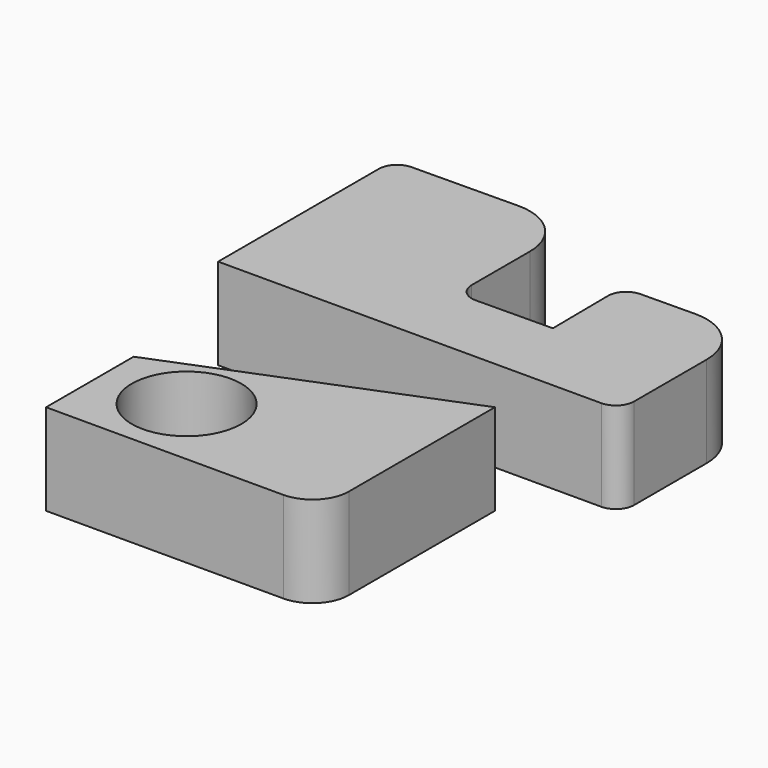
from build123d import *

# Parameters (mm, degrees)
F0_R     = 15
F1_DEPTH = 25


with BuildPart() as f1:
    # F0 (on Top) → F1 (new body)
    with BuildSketch(Plane.XY):
        with BuildLine():
            Line((-56.599461, 77.312244), (-56.599461, 22.263936))
            Line((-56.599461, 22.263936), (48.400539, 22.263936))
            ThreePointArc((48.400539, 22.263936), (51.936073, 23.728402), (53.400539, 27.263936))
            Line((53.400539, 27.263936), (53.400539, 52.117598))
            ThreePointArc((53.400539, 52.117598), (48.955529, 62.775561), (38.254915, 67.116891))
            Line((38.254915, 67.116891), (23.401953, 66.972688))
            ThreePointArc((23.401953, 66.972688), (19.880803, 65.473967), (18.45073, 61.924382))
            Line((18.45073, 61.924382), (18.635546, 42.888273))
            Line((18.635546, 42.888273), (-2.394281, 42.6841))
            ThreePointArc((-2.394281, 42.6841), (-5.961152, 44.13121), (-7.442822, 47.683865))
            Line((-7.442822, 47.683865), (-7.442822, 67.594846))
            ThreePointArc((-7.442822, 67.594846), (-11.887832, 78.252809), (-22.588446, 82.594139))
            Line((-22.588446, 82.594139), (-51.648002, 82.312008))
            ThreePointArc((-51.648002, 82.312008), (-55.152115, 80.830574), (-56.599461, 77.312244))
        make_face()
        with BuildLine():
            Line((31.807323, 6.566149), (-43.192677, -23.433851))
            Line((-43.192677, -23.433851), (-43.192677, -53.433851))
            Line((-43.192677, -53.433851), (21.807323, -53.433851))
            ThreePointArc((21.807323, -53.433851), (28.878391, -50.504919), (31.807323, -43.433851))
            Line((31.807323, -43.433851), (31.807323, 6.566149))
        make_face()
        with Locations((-20.692677, -33.433851)):
            Circle(F0_R, mode=Mode.SUBTRACT)
    extrude(amount=F1_DEPTH)


solid = f1.part
